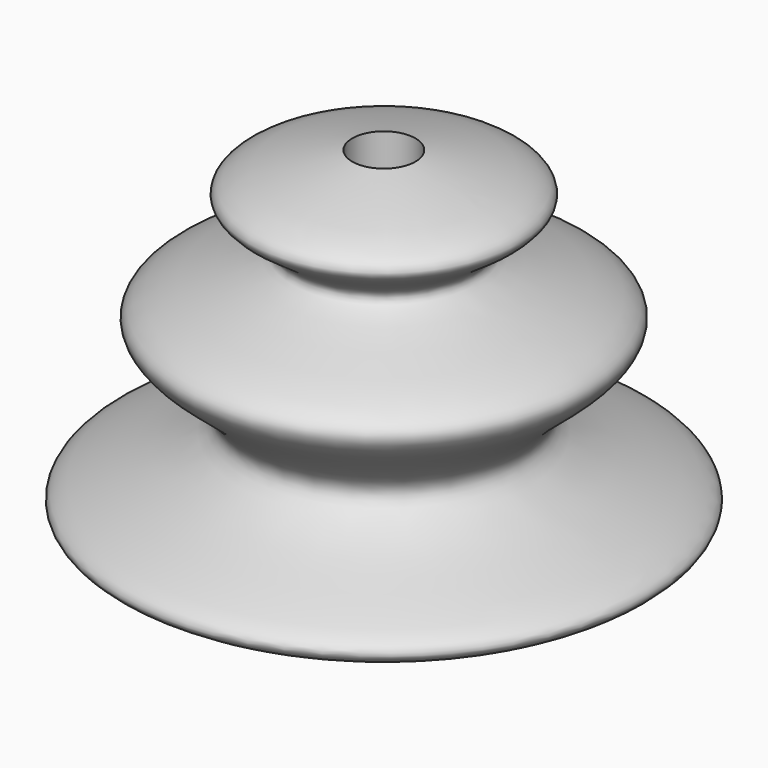
from build123d import *

# Parameters (mm, degrees)
F2_R     = 9.3394662064
F3_DEPTH = 12.7
F5_D     = 6.35


with BuildPart() as f1:
    # F0 (on Front) → F1 (revolve)
    with BuildSketch(Plane.XZ):
        with BuildLine():
            Line((0, 38.1), (0, 0))
            add(Edge.make_bspline(
                [(0, 0), (14.350977372, 2.2945801413), (39.1855557702, 6.2653849814), (4.3012712165, 12.7381315434), (29.7354424134, 24.2806495401), (2.422248214, 27.9041384292), (19.3085066306, 34.3315694195), (7.2616463998, 36.6827484807), (0, 38.1)],
                knots=[0, 0, 0, 0, 0.2339384907, 0.4048340149, 0.5558357804, 0.7180755229, 0.8300606279, 1, 1, 1, 1], degree=3))
        make_face()
    revolve(axis=Axis((0, 0, 19.05), (0, 0, -1)))

    # F2 (on Top) → F3 (join)
    with BuildSketch(Plane.XY):
        Circle(F2_R)
    extrude(amount=F3_DEPTH)

    # F5 (through all)
    with Locations(Plane(origin=(0, 0, 0), x_dir=(1, 0, 0), z_dir=(0, 0, -1))):
        with Locations((0, 0)):
            Hole(F5_D / 2)


solid = f1.part
